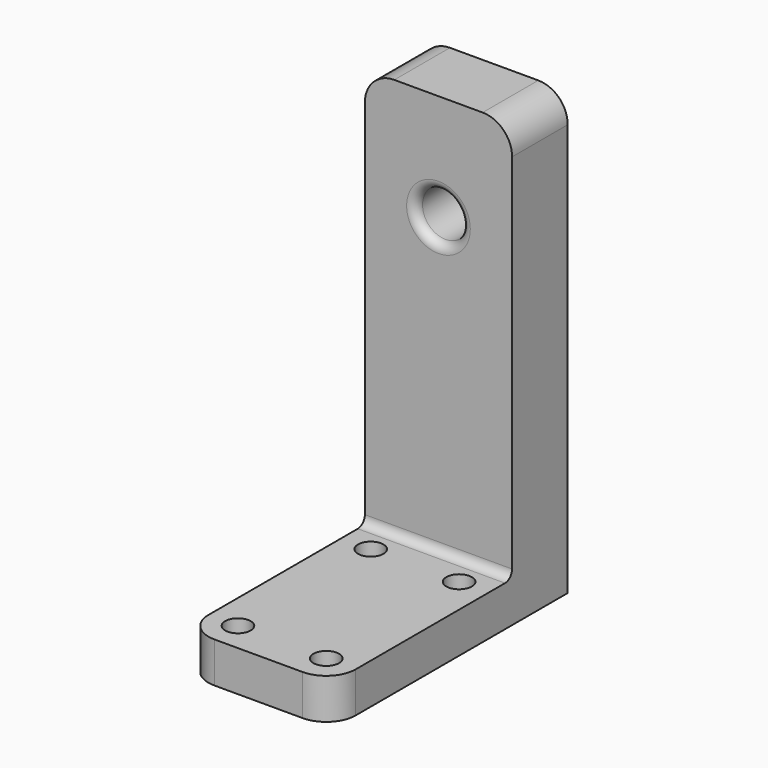
from build123d import *

# Parameters (mm, degrees)
F1_DEPTH = 25.4
F3_D     = 4.4
F4_R     = 3.96875
F5_DEPTH = 25.4
F6_R     = 5.08
F7_R     = 1.524


with BuildPart() as f1:
    # F0 (on Right) → F1 (new body)
    with BuildSketch(Plane.YZ):
        Polygon((-50.8, 7), (-50.8, 0), (0, 0), (0, 76.2), (-12, 76.2), (-12, 7), align=None)
    extrude(amount=F1_DEPTH)

    # F3 (through all)
    with Locations(Plane.XY.offset(7)):
        with Locations((20.32, -17.08), (5.08, -17.08), (5.08, -45.72), (20.32, -45.72)):
            Hole(F3_D / 2)

    # F4 (on face) → F5 (cut)
    with BuildSketch(Plane.XZ.offset(12)):
        with Locations((12.7, 57.8)):
            Circle(F4_R)
    extrude(amount=-F5_DEPTH, mode=Mode.SUBTRACT)

    # F6
    f6_edges = [f1.edges().sort_by_distance(p)[0] for p in [
        (25.4, -6, 76.2),
        (0, -6, 76.2),
        (25.4, -50.8, 3.5),
        (0, -50.8, 3.5),
    ]]
    fillet(f6_edges, radius=F6_R)

    # F7
    f7_edges = [f1.edges().sort_by_distance(p)[0] for p in [
        (12.7, -12, 7),
        (8.73125, -12, 57.8),
        (8.73125, 0, 57.8),
    ]]
    fillet(f7_edges, radius=F7_R)


solid = f1.part
